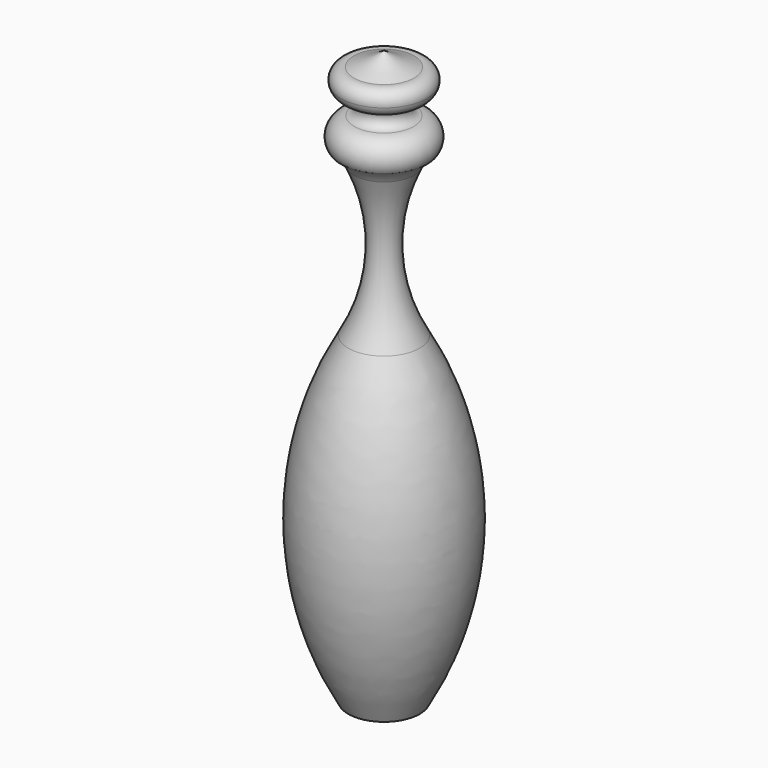
from build123d import *


with BuildPart() as f1:
    # F0 (on Front) → F1 (revolve)
    with BuildSketch(Plane.XZ):
        with BuildLine():
            Line((0, -80), (5, -80))
            ThreePointArc((5, -80), (11, -57.5), (5, -35))
            ThreePointArc((5, -35), (2.015889, -24.597189), (4.212017, -14))
            ThreePointArc((4.212017, -14), (4.979956, -12.863317), (6.046005, -12))
            ThreePointArc((6.046005, -12), (6.242912, -9.460595), (4.156286, -8))
            ThreePointArc((4.156286, -8), (3.018362, -6.724012), (4.212017, -5.5))
            ThreePointArc((4.212017, -5.5), (5.400399, -5.026948), (6.046005, -3.922764))
            ThreePointArc((6.046005, -3.922764), (5.629164, -2.484322), (4.212017, -2))
            ThreePointArc((4.212017, -2), (2.038954, -1.141218), (0, 0))
            Line((0, 0), (0, -80))
        make_face()
    revolve(axis=Axis((0, 0, -40), (0, 0, 1)))


solid = f1.part
